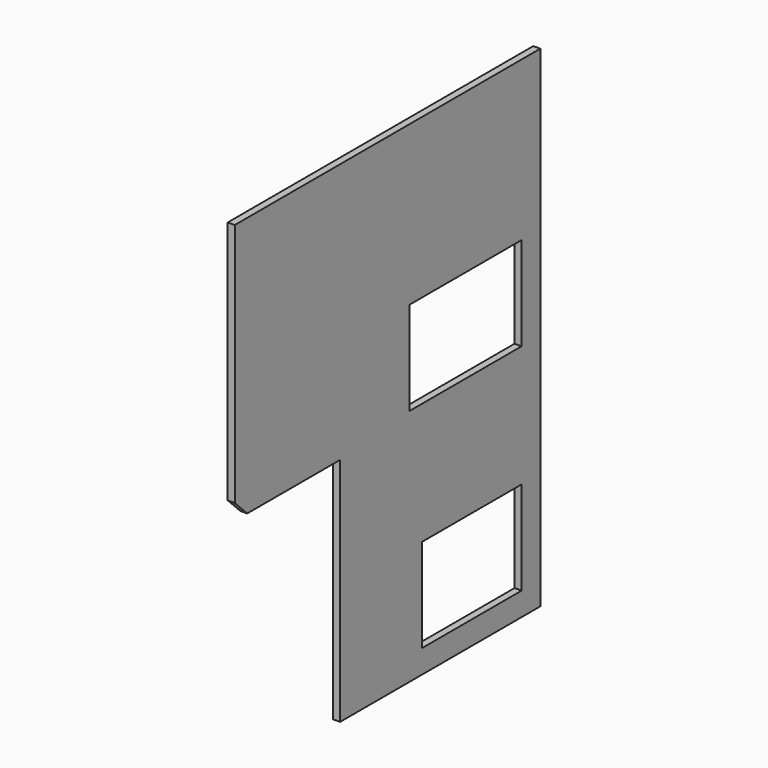
from build123d import *

# Parameters (mm, degrees)
F1_DEPTH = 9
F2_W     = 180
F2_H     = 120
F2_W_2   = 160
F3_DEPTH = 25


with BuildPart() as f1:
    # F0 (on Right) → F1 (new body)
    with BuildSketch(Plane.YZ):
        Polygon((0, 296), (0, 0), (321, 0), (321, 630), (-169, 630), (-169, 316), (-149, 296), align=None)
    extrude(amount=F1_DEPTH)

    # F2 (on face) → F3 (cut)
    with BuildSketch(Plane(origin=(0, 0, 0), x_dir=(0, -1, 0), z_dir=(-1, 0, 0))):
        with Locations((-201, 366)):
            Rectangle(F2_W, F2_H)
        with Locations((-211, 90)):
            Rectangle(F2_W_2, F2_H)
    extrude(amount=-F3_DEPTH, mode=Mode.SUBTRACT)


solid = f1.part
